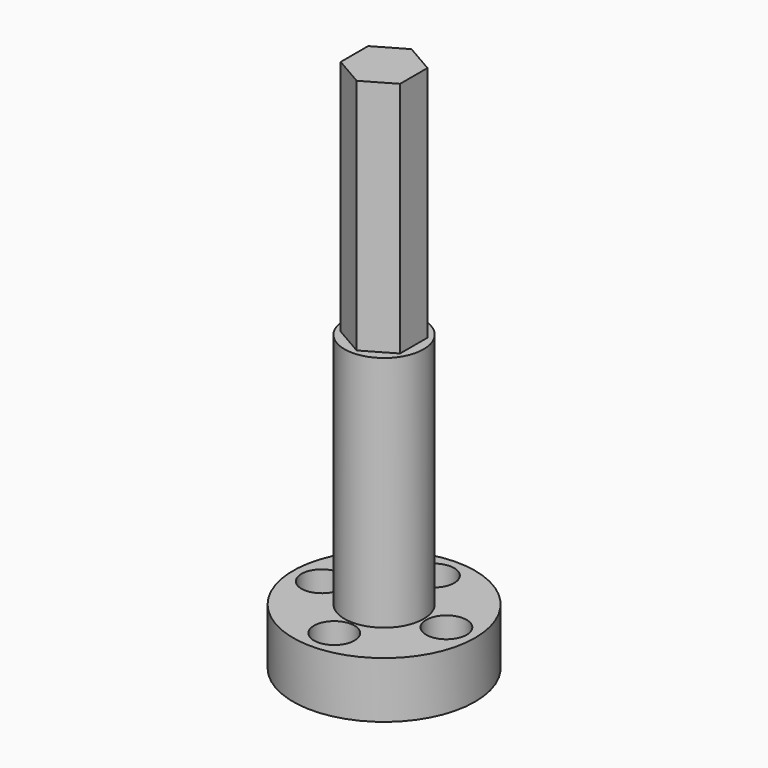
from build123d import *

# Parameters (mm, degrees)
F0_R            = 14.605
F1_DEPTH        = 9.017
F2_R            = 6.35
F3_DEPTH        = 38.1
F5_DEPTH        = 38.1
F6_R            = 8.255
F7_DEPTH        = 2.3368
F8_R            = 5.0165
F9_DEPTH        = 4.191
F11_D           = 3.3
F11_CBORE_D     = 6.5
F11_CBORE_DEPTH = 4.572


with BuildPart() as f1:
    # F0 (on Top) → F1 (new body)
    with BuildSketch(Plane.XY):
        Circle(F0_R)
    extrude(amount=F1_DEPTH)

    # F2 (on face) → F3 (join)
    with BuildSketch(Plane.XY.offset(9.017)):
        Circle(F2_R)
    extrude(amount=F3_DEPTH)

    # F4 (on face) → F5 (join)
    with BuildSketch(Plane.XY.offset(47.117)):
        Polygon((4.7625, -2.749630657), (4.7625, 2.749630657), (0, 5.499261314), (-4.7625, 2.749630657), (-4.7625, -2.749630657), (0, -5.499261314), align=None)
    extrude(amount=F5_DEPTH)

    # F6 (on face) → F7 (cut)
    with BuildSketch(Plane(origin=(0, 0, 0), x_dir=(1, 0, 0), z_dir=(0, 0, -1))):
        Circle(F6_R)
    extrude(amount=-F7_DEPTH, mode=Mode.SUBTRACT)

    # F8 (on face) → F9 (cut)
    with BuildSketch(Plane(origin=(0, 0, 0), x_dir=(1, 0, 0), z_dir=(0, 0, -1))):
        Circle(F8_R)
    extrude(amount=-F9_DEPTH, mode=Mode.SUBTRACT)

    # F11 (through all)
    with Locations(Plane.XY.offset(9.017)):
        with Locations((0, -10), (-10, 0), (0, 10), (10, 0)):
            CounterBoreHole(F11_D / 2, F11_CBORE_D / 2, F11_CBORE_DEPTH)


solid = f1.part
